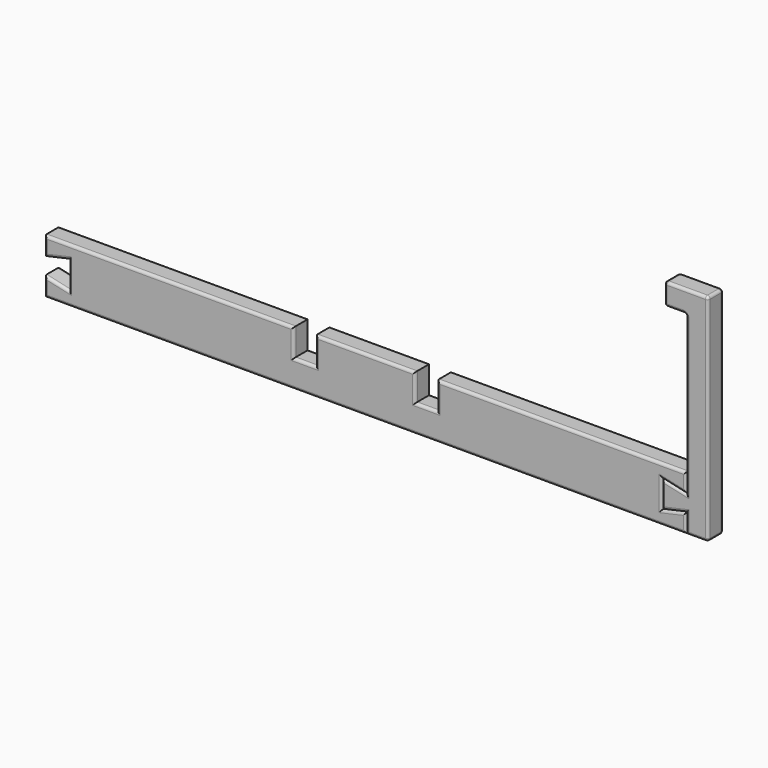
from build123d import *

# Parameters (mm, degrees)
F1_DEPTH = 7
F2_R     = 1
F0_W     = 8
F0_H     = 8
F3_DEPTH = 7
F4_R     = 1


with BuildPart() as f1:
    # F0 (on Front) → F1 (new body)
    with BuildSketch(Plane.XZ):
        Polygon((-26.25, -25.5), (-117.5, -25.5), (-117.5, -32.5), (-108.5853725672, -30.5), (-108.5853725672, -40.5), (-117.5, -38.5), (-117.5, -45.5), (117.5, -45.5), (117.5, -38.5), (108.5853725672, -40.5), (108.5853725672, -30.5), (117.5, -32.5), (117.5, -25.5), (26.25, -25.5), (26.25, -35.5), (18.25, -35.5), (18.25, -25.5), (-18.25, -25.5), (-18.25, -35.5), (-26.25, -35.5), align=None)
    extrude(amount=F1_DEPTH)

    # F2
    f2_edges = [f1.edges().sort_by_distance(p)[0] for p in [
        (0, 0, -45.5),
        (71.875, 0, -25.5),
        (26.25, 0, -30.5),
        (22.25, 0, -35.5),
        (18.25, 0, -30.5),
        (0, 0, -25.5),
        (-18.25, 0, -30.5),
        (-22.25, 0, -35.5),
        (-26.25, 0, -30.5),
        (-71.875, 0, -25.5),
        (-117.5, 0, -29),
        (-113.042686, 0, -31.5),
        (-108.585373, 0, -35.5),
        (-113.042686, 0, -39.5),
        (-117.5, 0, -42),
        (117.5, 0, -42),
        (113.042686, 0, -39.5),
        (108.585373, 0, -35.5),
        (113.042686, 0, -31.5),
        (117.5, 0, -29),
        (-71.875, -7, -25.5),
        (-117.5, -7, -29),
        (-113.042686, -7, -31.5),
        (-108.585373, -7, -35.5),
        (-113.042686, -7, -39.5),
        (-117.5, -7, -42),
        (0, -7, -45.5),
        (117.5, -7, -42),
        (113.042686, -7, -39.5),
        (108.585373, -7, -35.5),
        (113.042686, -7, -31.5),
        (117.5, -7, -29),
        (71.875, -7, -25.5),
        (26.25, -7, -30.5),
        (22.25, -7, -35.5),
        (18.25, -7, -30.5),
        (0, -7, -25.5),
        (-18.25, -7, -30.5),
        (-22.25, -7, -35.5),
        (-26.25, -7, -30.5),
    ]]
    fillet(f2_edges, radius=F2_R)


with BuildPart() as f3:
    # F0 (on Front) → F3 (new body)
    with BuildSketch(Plane.XZ):
        Polygon((117.5, -38.5), (117.5, -45.5), (125.5, -45.5), (125.5, 33.5), (117.5, 33.5), (117.5, 25.5), (117.5, -25.5), (117.5, -32.5), align=None)
        Polygon((108.5853725672, -40.5), (117.5, -38.5), (117.5, -32.5), (108.5853725672, -30.5), align=None)
        with Locations((113.5, 29.5)):
            Rectangle(F0_W, F0_H)
    extrude(amount=F3_DEPTH)

    # F4
    f4_edges = [f3.edges().sort_by_distance(p)[0] for p in [
        (125.5, 0, -6),
        (117.5, 0, -42),
        (121.5, 0, -45.5),
        (117.5, 0, 33.5),
        (109.5, 0, 29.5),
        (113.5, 0, 25.5),
        (117.5, 0, -3.5),
        (113.042686, 0, -31.5),
        (108.585373, 0, -35.5),
        (113.042686, 0, -39.5),
        (117.5, -7, -42),
        (121.5, -7, -45.5),
        (125.5, -7, -6),
        (117.5, -7, 33.5),
        (109.5, -7, 29.5),
        (113.5, -7, 25.5),
        (117.5, -7, -3.5),
        (113.042686, -7, -31.5),
        (108.585373, -7, -35.5),
        (113.042686, -7, -39.5),
        (125.5, -3.5, 33.5),
        (109.5, -3.5, 33.5),
        (125.5, -3.5, -45.5),
        (109.5, -3.5, 25.5),
        (117.5, -3.5, 25.5),
    ]]
    fillet(f4_edges, radius=F4_R)


solid = Compound([f1.part, f3.part])
